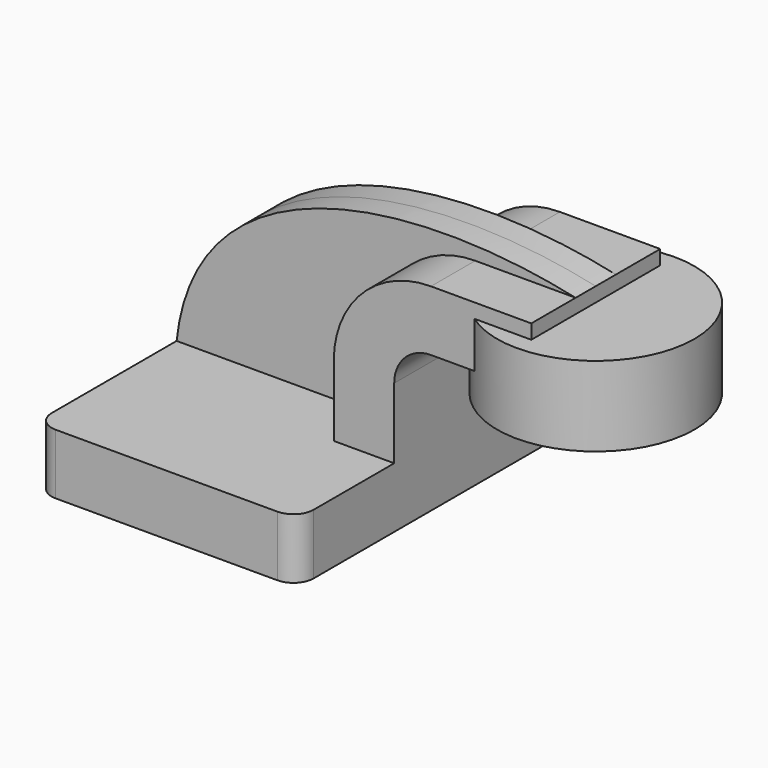
from build123d import *

# Parameters (mm, degrees)
F1_DEPTH = 63.5
F0_W     = 19.703557321
F0_H     = 14.5021951942
F2_DEPTH = 25.4
F3_DEPTH = 7.9375
F5_R     = 6.35


with BuildPart() as f1:
    # F0 (on Front) → F1 (new body, symmetric)
    with BuildSketch(Plane.XZ):
        Polygon((-41.275, 9.525), (-41.275, -9.525), (41.275, -9.525), (41.275, 9.525), (22.225, 9.525), align=None)
    extrude(amount=F1_DEPTH, both=True)

    # F0 (on Front) → F2 (join, symmetric)
    with BuildSketch(Plane.XZ):
        with BuildLine():
            Line((22.225, 9.525), (41.275, 9.525))
            Line((41.275, 9.525), (41.275, 31.7500035657))
            ThreePointArc((41.275, 31.7500035657), (44.6674064176, 39.9399971481), (52.8574, 43.3324035657))
            Line((52.8574, 43.3324035657), (64.774647217, 43.3324035657))
            Line((64.774647217, 43.3324035657), (64.774647217, 57.8345987598))
            Line((64.774647217, 57.8345987598), (84.478204538, 57.8345987598))
            Line((84.478204538, 57.8345987598), (84.478204538, 62.3824035657))
            Line((84.478204538, 62.3824035657), (52.8574, 62.3824035657))
            ThreePointArc((52.8574, 62.3824035657), (31.197022236, 53.4103813297), (22.225, 31.7500035657))
            Line((22.225, 31.7500035657), (22.225, 9.525))
        make_face()
        with Locations((74.6264258775, 50.5835011627)):
            Rectangle(F0_W, F0_H)
    extrude(amount=F2_DEPTH, both=True)

    # F0 (on Front) → F3 (join, symmetric)
    with BuildSketch(Plane.XZ):
        with BuildLine():
            add(Edge.make_bspline(
                [(-41.275, 9.525), (-35.4120545089, 64.6761879325), (31.4773879945, 74.0210413933), (84.478204538, 62.3824035657)],
                knots=[0, 0, 0, 0, 136.4103132585, 136.4103132585, 136.4103132585, 136.4103132585], degree=3))
            Line((-41.275, 9.525), (22.225, 9.525))
            Line((22.225, 9.525), (22.225, 31.7500035657))
            ThreePointArc((22.225, 31.7500035657), (31.197022236, 53.4103813297), (52.8574, 62.3824035657))
            Line((52.8574, 62.3824035657), (84.478204538, 62.3824035657))
        make_face()
    extrude(amount=F3_DEPTH, both=True)

    # F0 (on Front) → F4 (revolve)
    with BuildSketch(Plane.XZ):
        Polygon((115.574647217, 57.8345987598), (84.478204538, 57.8345987598), (84.478204538, 43.3324035657), (84.478204538, 32.6885987598), (115.574647217, 32.6885987598), align=None)
    revolve(axis=Axis((84.478204538, 0, 47.5355011627), (0, 0, -1)))

    # F5
    f5_edges = [f1.edges().sort_by_distance(p)[0] for p in [
        (41.275, -63.5, 0),
        (-41.275, -63.5, 0),
        (-41.275, 63.5, 0),
        (41.275, 63.5, 0),
    ]]
    fillet(f5_edges, radius=F5_R)


solid = f1.part
